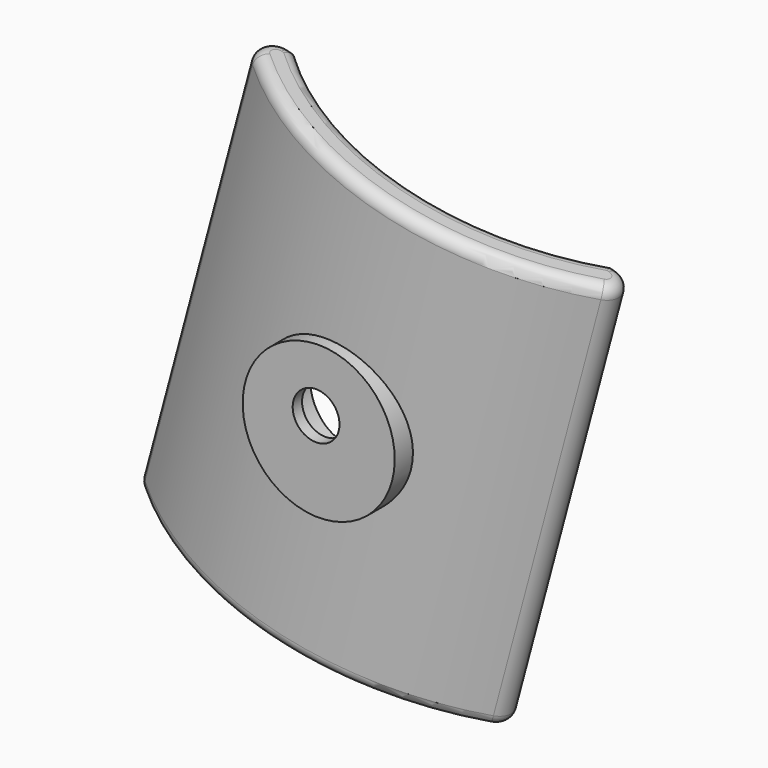
from build123d import *

# Parameters (mm, degrees)
CYLINDER016_R          = 8
CYLINDER016_DEPTH      = 10
CYLINDER016_ROLL_ANGLE = 90
CYLINDER015_R          = 4
CYLINDER015_DEPTH      = 20
CYLINDER015_ROLL_ANGLE = 90
BOX016_W               = 120
BOX016_H               = 100
BOX016_DEPTH           = 150
CYLINDER014_R          = 44
CYLINDER014_DEPTH      = 75
CYLINDER013_R          = 50
CYLINDER013_DEPTH      = 75
CYLINDER012_R          = 13
CYLINDER012_DEPTH      = 8
CYLINDER012_ROLL_ANGLE = 90
FILLET012_R            = 3
FILLET013_R            = 2
FILLET014_R            = 2
CUT021_PITCH_ANGLE     = 15


with BuildPart() as cylindre016:
    # Cylinder016 → Cylinder016 (new body)
    with BuildSketch(Plane.XY):
        Circle(CYLINDER016_R)
    extrude(amount=CYLINDER016_DEPTH)


with BuildPart() as cylindre016_1:
    # Cylinder016 roll: moved
    add(cylindre016.part.rotate(Axis((0, 0, 0), (1, 0, 0)), CYLINDER016_ROLL_ANGLE))


with BuildPart() as cylindre016_2:
    # Cylinder016 placement: moved
    add(cylindre016_1.part.moved(Location((-212, -9, -164))))


with BuildPart() as cylindre015:
    # Cylinder015 → Cylinder015 (new body)
    with BuildSketch(Plane.XY):
        Circle(CYLINDER015_R)
    extrude(amount=CYLINDER015_DEPTH)


with BuildPart() as cylindre015_1:
    # Cylinder015 roll: moved
    add(cylindre015.part.rotate(Axis((0, 0, 0), (1, 0, 0)), CYLINDER015_ROLL_ANGLE))


with BuildPart() as cylindre015_2:
    # Cylinder015 placement: moved
    add(cylindre015_1.part.moved(Location((-212, -10, -164))))


with BuildPart() as cube016:
    # Box016 → Box016 (new body)
    with BuildSketch(Plane(origin=(-269, -3, -220), x_dir=(1, 0, 0), z_dir=(0, 0, 1))):
        with Locations((60, 50)):
            Rectangle(BOX016_W, BOX016_H)
    extrude(amount=BOX016_DEPTH)


with BuildPart() as cylindre014:
    # Cylinder014 → Cylinder014 (new body)
    with BuildSketch(Plane(origin=(-212, 31, -203), x_dir=(1, 0, 0), z_dir=(0, 0, 1))):
        Circle(CYLINDER014_R)
    extrude(amount=CYLINDER014_DEPTH)


with BuildPart() as cut017:
    # Cylinder013 → Cylinder013 (new body)
    with BuildSketch(Plane(origin=(-212, 31, -203), x_dir=(1, 0, 0), z_dir=(0, 0, 1))):
        Circle(CYLINDER013_R)
    extrude(amount=CYLINDER013_DEPTH)

    # Cut017: cut Cylindre014
    add(cylindre014.part, mode=Mode.SUBTRACT)


with BuildPart() as cut021:
    # Cylinder012 → Cylinder012 (new body)
    with BuildSketch(Plane.XY):
        Circle(CYLINDER012_R)
    extrude(amount=CYLINDER012_DEPTH)


with BuildPart() as cut021_1:
    # Cylinder012 roll: moved
    add(cut021.part.rotate(Axis((0, 0, 0), (1, 0, 0)), CYLINDER012_ROLL_ANGLE))


with BuildPart() as cut021_2:
    # Cylinder012 placement: moved
    add(cut021_1.part.moved(Location((-211, -13, -166))))

    # Fusion011: union Cut017
    add(cut017.part)

    # Cut018: cut Cube016
    add(cube016.part, mode=Mode.SUBTRACT)

    # Fillet012
    fillet012_edges = [cut021_2.edges().sort_by_distance(p)[0] for p in [
        (-175.339394, -3, -165.5),
        (-248.660606, -3, -165.5),
    ]]
    fillet(fillet012_edges, radius=FILLET012_R)

    # Fillet013
    fillet013_edges = [cut021_2.edges().sort_by_distance(p)[0] for p in [
        (-212, -19, -203),
        (-212, -13, -203),
    ]]
    fillet(fillet013_edges, radius=FILLET013_R)

    # Fillet014
    fillet014_edges = [cut021_2.edges().sort_by_distance(p)[0] for p in [
        (-212, -19, -128),
        (-212, -13, -128),
    ]]
    fillet(fillet014_edges, radius=FILLET014_R)

    # Cut019: cut Cylindre015
    add(cylindre015_2.part, mode=Mode.SUBTRACT)

    # Cut021: cut Cylindre016
    add(cylindre016_2.part, mode=Mode.SUBTRACT)


with BuildPart() as cut021_3:
    # Cut021 pitch: moved
    add(cut021_2.part.rotate(Axis((0, 0, 0), (0, 1, 0)), CUT021_PITCH_ANGLE))


with BuildPart() as cut021_4:
    # Cut021 placement: moved
    add(cut021_3.part.moved(Location((35.610827, 0, -60.508913))))


solid = cut021_4.part
